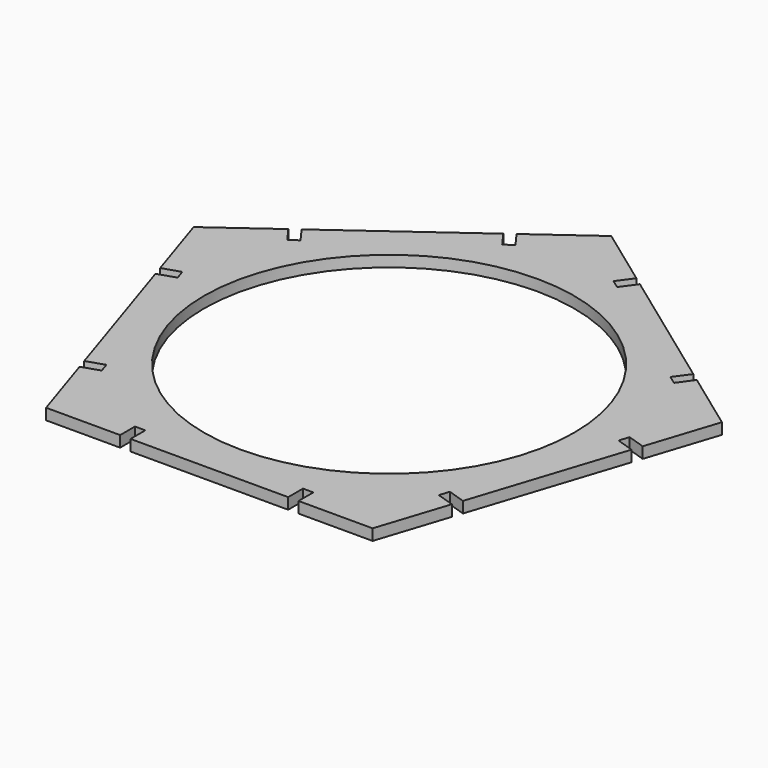
from build123d import *

# Parameters (mm, degrees)
F0_R     = 50
F1_DEPTH = 3


with BuildPart() as f1:
    # F0 (on Top) → F1 (new body)
    with BuildSketch(Plane.XY):
        Polygon((16.18034, 63.244295), (0, 75), (-16.18034, 63.244295), (-13.241414, 59.19921), (-15.506661, 57.553411), (-18.445587, 61.598496), (-52.883651, 36.577778), (-49.944725, 32.532693), (-52.209973, 30.886895), (-55.148899, 34.93198), (-71.329239, 23.176275), (-65.148899, 4.155144), (-60.393616, 5.700229), (-59.528369, 3.037271), (-64.283651, 1.492186), (-51.129481, -38.992186), (-46.374199, -37.447101), (-45.508951, -40.110059), (-50.264234, -41.655144), (-44.083894, -60.676275), (-24.083894, -60.676275), (-24.083894, -55.676275), (-21.283894, -55.676275), (-21.283894, -60.676275), (21.283894, -60.676275), (21.283894, -55.676275), (24.083894, -55.676275), (24.083894, -60.676275), (44.083894, -60.676275), (50.264234, -41.655144), (45.508951, -40.110059), (46.374199, -37.447101), (51.129481, -38.992186), (64.283651, 1.492186), (59.528369, 3.037271), (60.393616, 5.700229), (65.148899, 4.155144), (71.329239, 23.176275), (55.148899, 34.93198), (52.209973, 30.886895), (49.944725, 32.532693), (52.883651, 36.577778), (18.445587, 61.598496), (15.506661, 57.553411), (13.241414, 59.19921), align=None)
        Circle(F0_R, mode=Mode.SUBTRACT)
    extrude(amount=F1_DEPTH)


solid = f1.part
